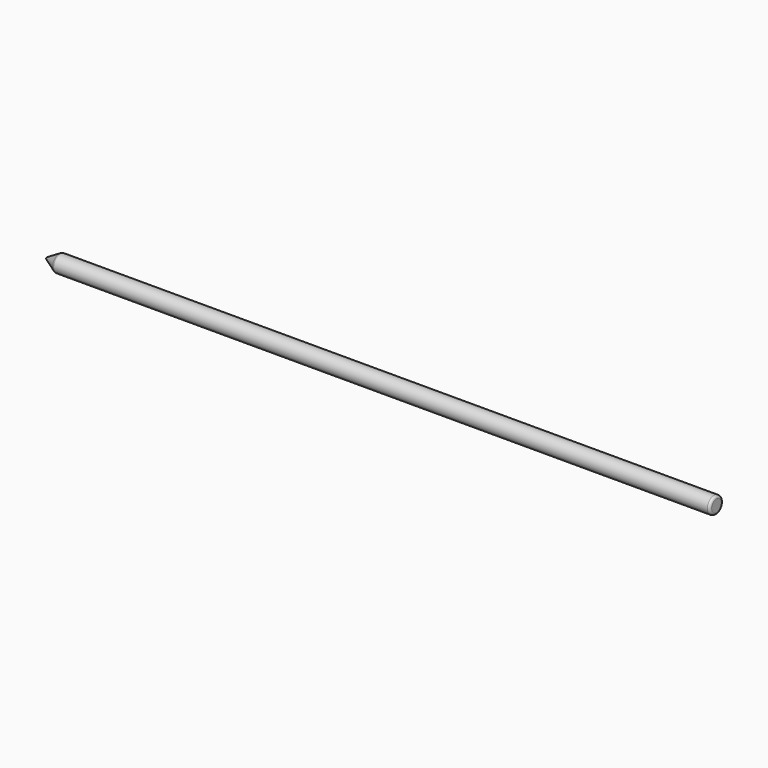
from build123d import *


with BuildPart() as f1:
    # F0 (on Top) → F1 (revolve)
    with BuildSketch(Plane.XY):
        with BuildLine():
            ThreePointArc((-279.5, 0), (-279.433013, -0.25), (-279.25, -0.433013))
            Line((-279.25, -0.433013), (-274.169873, -3.366025))
            ThreePointArc((-274.169873, -3.366025), (-273.928692, -3.465926), (-273.669873, -3.5))
            Line((-273.669873, -3.5), (-1, -3.5))
            ThreePointArc((-1, -3.5), (-0.292893, -3.207107), (0, -2.5))
            Line((0, -2.5), (0, 0))
            Line((0, 0), (-279.5, 0))
        make_face()
    revolve(axis=Axis((-140, 0, 0), (-1, 0, 0)))


solid = f1.part
